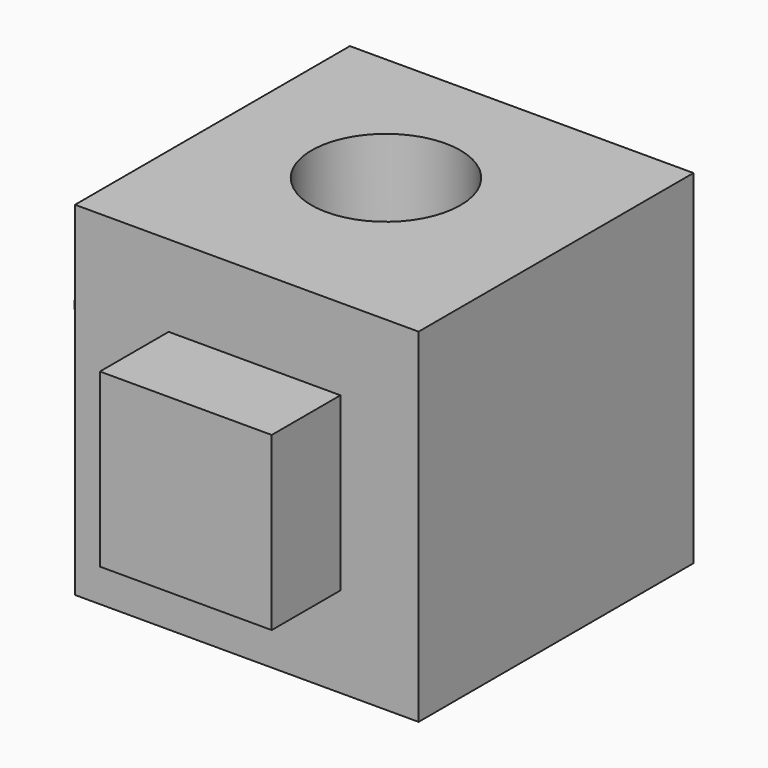
from build123d import *

# Parameters (mm, degrees)
F0_W     = 50.8
F0_H     = 50.8
F1_DEPTH = 50.8
F2_W     = 25.4
F2_H     = 25.4
F3_DEPTH = 12.7
F4_R     = 11
F5_DEPTH = 50.8
F6_R     = 11
F7_DEPTH = 12.7


with BuildPart() as f1:
    # F0 (on Front) → F1 (new body)
    with BuildSketch(Plane.XZ):
        with Locations((-21.93247, 21.290337)):
            Rectangle(F0_W, F0_H)
    extrude(amount=F1_DEPTH)

    # F2 (on face) → F3 (join)
    with BuildSketch(Plane.XZ.offset(50.8)):
        with Locations((-20.790899, 21.946741)):
            Rectangle(F2_W, F2_H)
    extrude(amount=F3_DEPTH)

    # F4 (on face) → F5 (cut)
    with BuildSketch(Plane.XY.offset(46.690337)):
        with Locations((-23.502136, -23.116853)):
            Circle(F4_R)
    extrude(amount=-F5_DEPTH, mode=Mode.SUBTRACT)

    # F6 (on face) → F7 (join)
    with BuildSketch(Plane(origin=(-47.33247, 0, 0), x_dir=(0, -1, 0), z_dir=(-1, 0, 0))):
        with Locations((24.015844, 23.116853)):
            Circle(F6_R)
    extrude(amount=F7_DEPTH)


solid = f1.part
